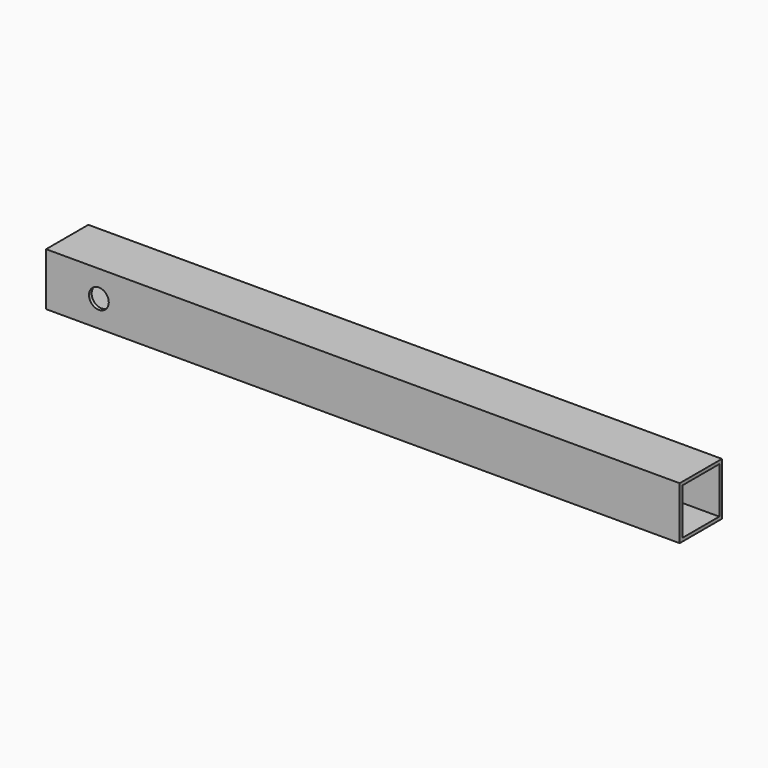
from build123d import *

# Parameters (mm, degrees)
F0_W     = 25.4
F0_H     = 25.4
F0_W_2   = 22.225
F0_H_2   = 22.225
F1_DEPTH = 304.8
F2_R     = 4.7625
F3_DEPTH = 25.4


with BuildPart() as f1:
    # F0 (on Right) → F1 (new body)
    with BuildSketch(Plane.YZ):
        with Locations((-11.1125, -9.054881)):
            Rectangle(F0_W, F0_H)
        with Locations((-11.1125, -9.054881)):
            Rectangle(F0_W_2, F0_H_2, mode=Mode.SUBTRACT)
    extrude(amount=F1_DEPTH)

    # F2 (on face) → F3 (cut)
    with BuildSketch(Plane.XZ.offset(23.8125)):
        with Locations((25.4, -9.054881)):
            Circle(F2_R)
    extrude(amount=-F3_DEPTH, mode=Mode.SUBTRACT)


solid = f1.part
